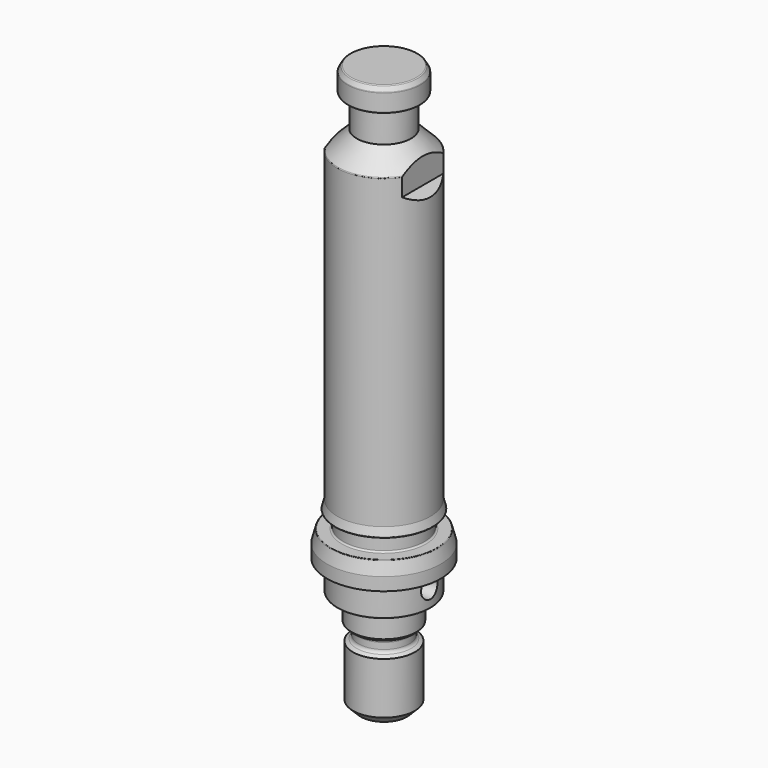
from build123d import *

# Parameters (mm, degrees)
F3_DEPTH      = 12
F3_DEPTH_BACK = 12
F4_COUNT      = 2
F6_R          = 4
F7_DEPTH      = 22.001
F7_DEPTH_BACK = 22.001


with BuildPart() as f1:
    # F0 (on Front) → F1 (revolve)
    with BuildSketch(Plane.XZ):
        with BuildLine():
            Line((0, 13.3197640476), (0, 178.9999999999))
            Line((0, 178.9999999999), (-12.5566243271, 178.9999999999))
            ThreePointArc((-12.5566243271, 178.9999999999), (-12.8066243271, 178.9330127018), (-12.989637029, 178.7499999999))
            Line((-12.989637029, 178.7499999999), (-13.9330127019, 177.1160254037))
            ThreePointArc((-13.9330127019, 177.1160254037), (-13.9829629132, 176.9954349262), (-14, 176.8660254037))
            Line((-14, 176.8660254037), (-14, 170.3836634939))
            ThreePointArc((-14, 170.3836634939), (-13.8966766701, 170.0792827793), (-13.6294095225, 169.9007005807))
            Line((-13.6294095225, 169.9007005807), (-10.8705904774, 169.1614772455))
            ThreePointArc((-10.8705904774, 169.1614772455), (-10.6033233298, 168.9828950468), (-10.5, 168.6785143324))
            Line((-10.5, 168.6785143324), (-10.5, 157.5))
            Line((-10.5, 157.5), (-17.8535533906, 150.1464466094))
            ThreePointArc((-17.8535533906, 150.1464466094), (-17.9619397662, 149.984234935), (-18, 149.7928932188))
            Line((-18, 149.7928932188), (-18, 31.2093101465))
            Line((-18, 31.2093101465), (-18.8404644938, 28.0726539537))
            ThreePointArc((-18.8404644938, 28.0726539537), (-18.7973213723, 27.8557588352), (-18.5989830372, 27.7579491924))
            Line((-18.5989830372, 27.7579491924), (-16.3, 27.7579491924))
            ThreePointArc((-16.3, 27.7579491924), (-15.8757359313, 27.5822132611), (-15.7, 27.1579491924))
            Line((-15.7, 27.1579491924), (-15.7, 21.8779491924))
            ThreePointArc((-15.7, 21.8779491924), (-15.8757359313, 21.4536851237), (-16.3, 21.2779491924))
            Line((-16.3, 21.2779491924), (-20.4692684004, 21.2779491924))
            ThreePointArc((-20.4692684004, 21.2779491924), (-20.6214587577, 21.2262875275), (-20.710749857, 21.0926539537))
            Line((-20.710749857, 21.0926539537), (-22, 16.2811069163))
            Line((-22, 16.2811069163), (-22, 11.2811069163))
            Line((-22, 11.2811069163), (-18, 11.2811069163))
            Line((-18, 11.2811069163), (-18, 0.3))
            ThreePointArc((-18, 0.3), (-17.974341649, 0.141886117), (-17.9, 0))
            Line((-17.9, 0), (-13.75, 0))
            Line((-13.75, 0), (-13.2667817812, 0.1758770483))
            ThreePointArc((-13.2667817812, 0.1758770483), (-13.1994329949, 0.1939231012), (-13.1299737239, 0.2))
            Line((-13.1299737239, 0.2), (-12.7, 0.2))
            ThreePointArc((-12.7, 0.2), (-12.4171572875, 0.0828427125), (-12.3, -0.2))
            Line((-12.3, -0.2), (-12.3, -0.7464101615))
            ThreePointArc((-12.3, -0.7464101615), (-12.3136296695, -0.8499377796), (-12.3535898385, -0.9464101615))
            Line((-12.3535898385, -0.9464101615), (-12.5, -1.2))
            Line((-12.5, -1.2), (-12.5, -9.9999999998))
            Line((-12.5, -9.9999999998), (-11.5, -10.9999999998))
            Line((-11.5, -10.9999999998), (-11.2999999998, -10.9999999998))
            ThreePointArc((-11.2999999998, -10.9999999998), (-10.239339828, -11.439339828), (-9.7999999998, -12.4999999998))
            Line((-9.7999999998, -12.4999999998), (-9.7999999998, -14.8926715178))
            ThreePointArc((-9.7999999998, -14.8926715178), (-10.0009618941, -15.6426715176), (-10.5499999997, -16.1917096232))
            Line((-10.5499999997, -16.1917096232), (-11.9499999998, -17.0000000001))
            Line((-11.9499999998, -17.0000000001), (-11.9499999998, -37.0000000001))
            Line((-11.9499999998, -37.0000000001), (-8.9499999998, -40.0000000001))
            Line((-8.9499999998, -40.0000000001), (-6.6160254036, -40.0000000001))
            Line((-6.6160254036, -40.0000000001), (-5.7499999998, -38.5000000001))
            Line((-5.7499999998, -38.5000000001), (-5.7499999998, 9.9999999999))
            Line((-5.7499999998, 9.9999999999), (0, 13.3197640476))
        make_face()
    revolve(axis=Axis((0, 0, 0), (0, 0, -1)))


with BuildPart() as f3:
    # F2 (on Front) → F3 (new body, two sides)
    with BuildSketch(Plane.XZ) as f3_sk:
        Polygon((20, 154.9999999999), (15, 154.9999999999), (15, 142.9999999999), (20, 137.9999999999), align=None)
    extrude(amount=F3_DEPTH)
    extrude(f3_sk.sketch, amount=-F3_DEPTH_BACK)


with BuildPart() as f4_1:
    # F4: instance of F3
    add(f3.part.rotate(Axis((0, 0, 149.7928932188), (0, 0, -1)), 1 * 360 / F4_COUNT))


with BuildPart() as f1_1:
    add(f1.part)

    # F5: cut F4_1, F3
    add(f4_1.part, mode=Mode.SUBTRACT)
    add(f3.part, mode=Mode.SUBTRACT)

    # F6 (on Right) → F7 (cut, two sides)
    with BuildSketch(Plane.YZ) as f7_sk:
        with Locations((0, 7)):
            Circle(F6_R)
    extrude(amount=-F7_DEPTH, mode=Mode.SUBTRACT)
    extrude(f7_sk.sketch, amount=F7_DEPTH_BACK, mode=Mode.SUBTRACT)


solid = f1_1.part
